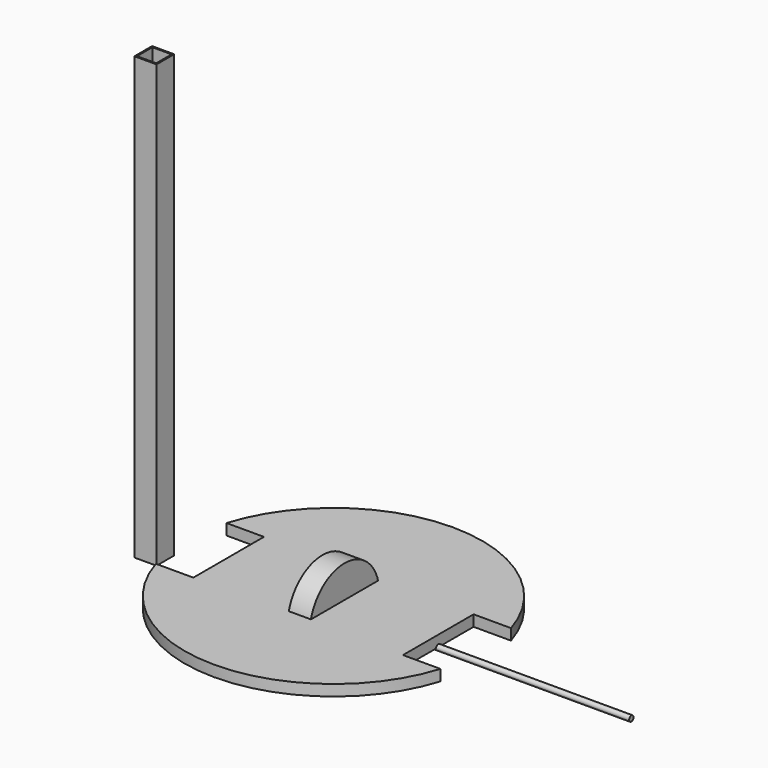
from build123d import *

# Parameters (mm, degrees)
F0_R     = 171.45
F1_DEPTH = 12.7
F2_W     = 50.8
F2_H     = 101.6
F3_DEPTH = 12.701
F4_W     = 25.4
F4_H     = 46.825
F6_R     = 3.175
F7_DEPTH = 342.9
F8_W     = 25.4
F8_H     = 25.4
F8_W_2   = 22.098
F8_H_2   = 22.098
F9_DEPTH = 508


with BuildPart() as f1:
    # F0 (on Top) → F1 (new body)
    with BuildSketch(Plane.XY):
        Circle(F0_R)
    extrude(amount=F1_DEPTH)

    # F2 (on face) → F3 (cut, through all)
    with BuildSketch(Plane.XY.offset(12.7)):
        with Locations((-146.05, 0)):
            Rectangle(F2_W, F2_H)
        with Locations((146.05, 0)):
            Rectangle(F2_W, F2_H)
    extrude(amount=-F3_DEPTH, mode=Mode.SUBTRACT)


with BuildPart() as f5:
    # F4 (on Front) → F5 (revolve)
    with BuildSketch(Plane.XZ):
        with Locations((0, 26.5875)):
            Rectangle(F4_W, F4_H)
    revolve(axis=Axis((2.3544135088, 0, 0), (1, 0, 0)))


with BuildPart() as f7:
    # F6 (on Right) → F7 (new body)
    with BuildSketch(Plane.YZ):
        Circle(F6_R)
    extrude(amount=F7_DEPTH)


with BuildPart() as f9:
    # F8 (on Top) → F9 (new body)
    with BuildSketch(Plane.XY):
        with Locations((-188.8841964616, -21.6626264155)):
            Rectangle(F8_W, F8_H)
        with Locations((-188.8841964616, -21.6626264155)):
            Rectangle(F8_W_2, F8_H_2, mode=Mode.SUBTRACT)
    extrude(amount=F9_DEPTH)


solid = Compound([f1.part, f5.part, f7.part, f9.part])
